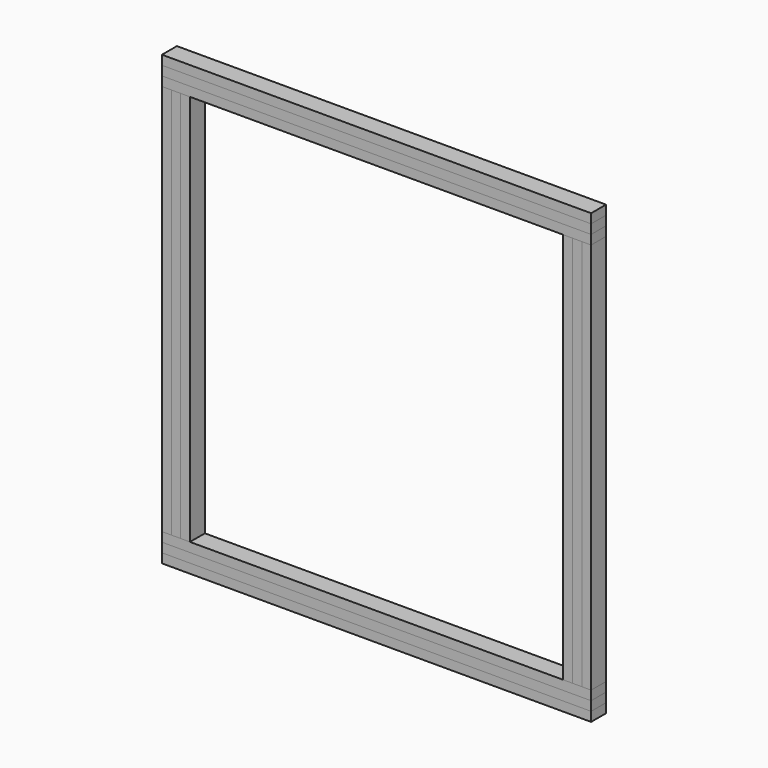
from build123d import *

# Parameters (mm, degrees)
F0_W     = 2300
F0_H     = 50
F0_W_2   = 50
F0_H_2   = 2100
F1_DEPTH = 100
F2_DEPTH = 100
F3_DEPTH = 100


with BuildPart() as f1:
    # F0 (on Front) → F1 (new body)
    with BuildSketch(Plane.XZ):
        with Locations((0, 1443.164492)):
            Rectangle(F0_W, F0_H)
        with Locations((-1125, 318.164492)):
            Rectangle(F0_W_2, F0_H_2)
        with Locations((-1025, 318.164492)):
            Rectangle(F0_W_2, F0_H_2)
        with Locations((0, -806.835508)):
            Rectangle(F0_W, F0_H)
        with Locations((1125, 318.164492)):
            Rectangle(F0_W_2, F0_H_2)
        with Locations((1025, 318.164492)):
            Rectangle(F0_W_2, F0_H_2)
    extrude(amount=F1_DEPTH)


with BuildPart() as f2:
    # F0 (on Front) → F2 (new body)
    with BuildSketch(Plane.XZ):
        Polygon((-1150, 1518.164492), (-1150, 1468.164492), (1150, 1468.164492), (1150, 1518.164492), (0, 1518.164492), (-1023.93508, 1518.164492), (-1079.289322, 1518.164492), align=None)
        Polygon((-1150, 1418.164492), (-1150, 1368.164492), (-1100, 1368.164492), (-1050, 1368.164492), (-1000, 1368.164492), (-950, 1368.164492), (-900, 1368.164492), (900, 1368.164492), (950, 1368.164492), (1000, 1368.164492), (1050, 1368.164492), (1100, 1368.164492), (1150, 1368.164492), (1150, 1418.164492), align=None)
        Polygon((-1150, -731.835508), (-1150, -781.835508), (1150, -781.835508), (1150, -731.835508), (1100, -731.835508), (1050, -731.835508), (1000, -731.835508), (950, -731.835508), (900, -731.835508), (-900, -731.835508), (-950, -731.835508), (-1000, -731.835508), (-1050, -731.835508), (-1100, -731.835508), align=None)
        with Locations((0, -856.835508)):
            Rectangle(F0_W, F0_H)
    extrude(amount=F2_DEPTH)


with BuildPart() as f3:
    # F0 (on Front) → F3 (new body)
    with BuildSketch(Plane.XZ):
        with Locations((-1075, 318.164492)):
            Rectangle(F0_W_2, F0_H_2)
        with Locations((1075, 318.164492)):
            Rectangle(F0_W_2, F0_H_2)
    extrude(amount=F3_DEPTH)


solid = Compound([f1.part, f2.part, f3.part])
